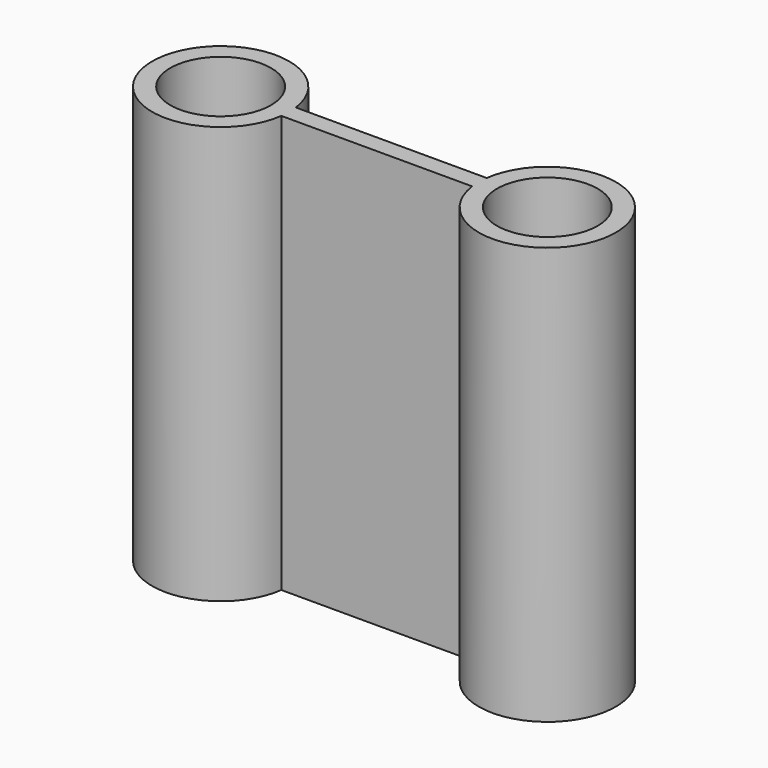
from build123d import *

# Parameters (mm, degrees)
F0_R     = 11.1
F1_DEPTH = 46


with BuildPart() as f1:
    # F0 (on Top) → F1 (new body, symmetric)
    with BuildSketch(Plane.XY):
        with BuildLine():
            Line((-21.033036, -2), (0, -2))
            Line((0, -2), (21.033036, -2))
            ThreePointArc((21.033036, -2), (51.1, 0), (21.033036, 2))
            Line((21.033036, 2), (0, 2))
            Line((0, 2), (-21.033036, 2))
            ThreePointArc((-21.033036, 2), (-51.1, 0), (-21.033036, -2))
        make_face()
        with Locations((-36, 0)):
            Circle(F0_R, mode=Mode.SUBTRACT)
        with Locations((36, 0)):
            Circle(F0_R, mode=Mode.SUBTRACT)
    extrude(amount=F1_DEPTH, both=True)


solid = f1.part
